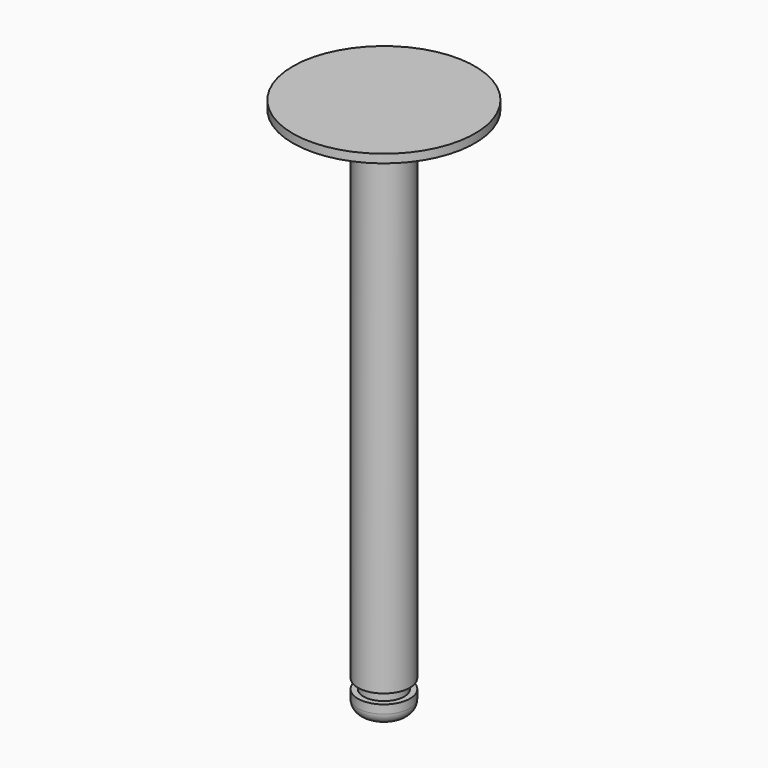
from build123d import *

# Parameters (mm, degrees)
F2_R = 2


with BuildPart() as f1:
    # F0 (on Front) → F1 (revolve)
    with BuildSketch(Plane.XZ):
        Polygon((-4.6, 0), (0, 0), (0, 95), (-16.067319, 95), (-16.067319, 93.5), (-4.6, 93.5), (-4.6, 5.2), (-3.6, 5.2), (-3.6, 3.5), (-4.6, 3.5), align=None)
    revolve(axis=Axis((0, 0, 47.5), (0, 0, -1)))

    # F2
    f2_edges = [f1.edges().sort_by_distance(p)[0] for p in [
        (4.6, 0, 0),
    ]]
    fillet(f2_edges, radius=F2_R)


solid = f1.part
